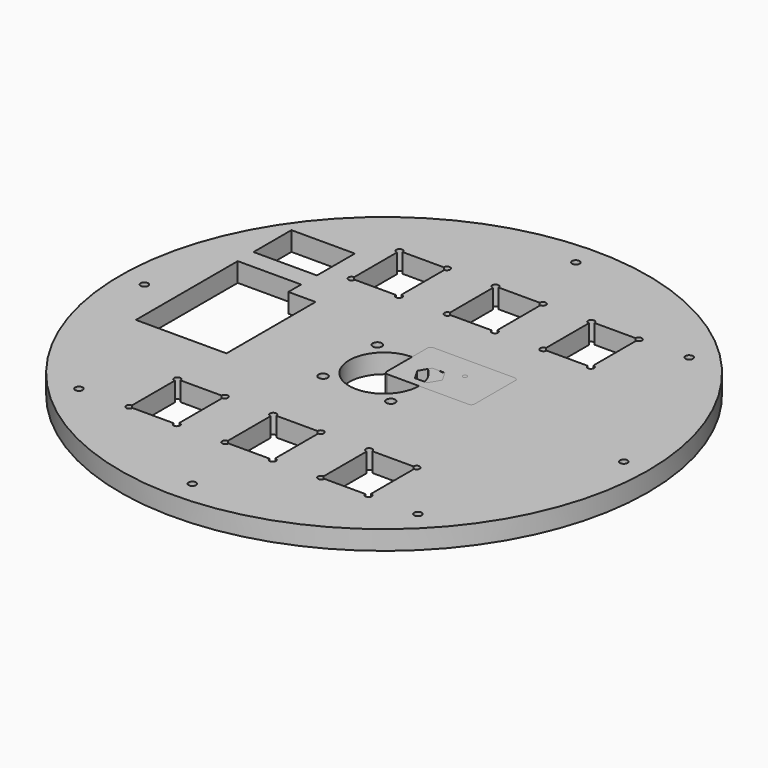
from build123d import *

# Parameters (mm, degrees)
F0_R     = 82.58
F0_R_2   = 1.17
F0_R_3   = 1.42
F0_R_4   = 10.92
F1_DEPTH = 6
F2_W     = 19.84
F2_H     = 14.84
F3_DEPTH = 6.001
F4_R     = 82.58
F4_R_2   = 1.17
F4_W     = 14.84
F4_H     = 18.74
F4_R_3   = 1.42
F4_W_2   = 19.84
F4_H_2   = 14.84
F4_R_4   = 10.92
F5_DEPTH = 6.001
F6_R     = 1
F7_DEPTH = 6.001
F8_W     = 27.5
F8_H     = 18
F8_R     = 0.65
F9_DEPTH = 6
F10_R    = 1


with BuildPart() as f1:
    # F0 (on Top) → F1 (new body)
    with BuildSketch(Plane.XY):
        Circle(F0_R)
        with Locations((-53.033009, -53.033009)):
            Circle(F0_R_2, mode=Mode.SUBTRACT)
        with Locations((-10.606602, -10.606602)):
            Circle(F0_R_3, mode=Mode.SUBTRACT)
        with Locations((0, -75)):
            Circle(F0_R_2, mode=Mode.SUBTRACT)
        with Locations((53.033009, -53.033009)):
            Circle(F0_R_2, mode=Mode.SUBTRACT)
        with Locations((10.606602, -10.606602)):
            Circle(F0_R_3, mode=Mode.SUBTRACT)
        with Locations((-75, 0)):
            Circle(F0_R_2, mode=Mode.SUBTRACT)
        with Locations((-10.606602, 10.606602)):
            Circle(F0_R_3, mode=Mode.SUBTRACT)
        Circle(F0_R_4, mode=Mode.SUBTRACT)
        with Locations((10.606602, 10.606602)):
            Circle(F0_R_3, mode=Mode.SUBTRACT)
        with Locations((75, 0)):
            Circle(F0_R_2, mode=Mode.SUBTRACT)
        with Locations((0, 75)):
            Circle(F0_R_2, mode=Mode.SUBTRACT)
        with Locations((53.033009, 53.033009)):
            Circle(F0_R_2, mode=Mode.SUBTRACT)
    extrude(amount=F1_DEPTH)

    # F2 (on face) → F3 (cut, through all)
    with BuildSketch(Plane.XY.offset(6)):
        with Locations((-55, 37.499991)):
            Rectangle(F2_W, F2_H)
        Polygon((-45.08, 23.919991), (-64.92, 23.919991), (-64.92, -15.920009), (-36.58, -15.920009), (-36.58, 18.919991), (-45.08, 18.919991), align=None)
    extrude(amount=-F3_DEPTH, mode=Mode.SUBTRACT)

    # F4 (on face) → F5 (intersect, through all)
    with BuildSketch(Plane.XY.offset(6)):
        Circle(F4_R)
        with Locations((-53.033009, -53.033009)):
            Circle(F4_R_2, mode=Mode.SUBTRACT)
        with Locations((-30, -43.45)):
            Rectangle(F4_W, F4_H, mode=Mode.SUBTRACT)
        with Locations((-10.606602, -10.606602)):
            Circle(F4_R_3, mode=Mode.SUBTRACT)
        with Locations((0, -75)):
            Circle(F4_R_2, mode=Mode.SUBTRACT)
        with Locations((0, -43.45)):
            Rectangle(F4_W, F4_H, mode=Mode.SUBTRACT)
        with Locations((30, -43.45)):
            Rectangle(F4_W, F4_H, mode=Mode.SUBTRACT)
        with Locations((53.033009, -53.033009)):
            Circle(F4_R_2, mode=Mode.SUBTRACT)
        with Locations((10.606602, -10.606602)):
            Circle(F4_R_3, mode=Mode.SUBTRACT)
        with Locations((-75, 0)):
            Circle(F4_R_2, mode=Mode.SUBTRACT)
        Polygon((-45.08, 23.919991), (-45.08, 18.919991), (-36.58, 18.919991), (-36.58, -15.920009), (-64.92, -15.920009), (-64.92, 23.919991), align=None, mode=Mode.SUBTRACT)
        with Locations((-55, 37.499991)):
            Rectangle(F4_W_2, F4_H_2, mode=Mode.SUBTRACT)
        with Locations((-10.606602, 10.606602)):
            Circle(F4_R_3, mode=Mode.SUBTRACT)
        with Locations((-30, 43.45)):
            Rectangle(F4_W, F4_H, mode=Mode.SUBTRACT)
        Circle(F4_R_4, mode=Mode.SUBTRACT)
        with Locations((10.606602, 10.606602)):
            Circle(F4_R_3, mode=Mode.SUBTRACT)
        with Locations((75, 0)):
            Circle(F4_R_2, mode=Mode.SUBTRACT)
        with Locations((0, 43.45)):
            Rectangle(F4_W, F4_H, mode=Mode.SUBTRACT)
        with Locations((30, 43.45)):
            Rectangle(F4_W, F4_H, mode=Mode.SUBTRACT)
        with Locations((0, 75)):
            Circle(F4_R_2, mode=Mode.SUBTRACT)
        with Locations((53.033009, 53.033009)):
            Circle(F4_R_2, mode=Mode.SUBTRACT)
    extrude(amount=-F5_DEPTH, mode=Mode.INTERSECT)

    # F6 (on face) → F7 (cut, through all)
    with BuildSketch(Plane.XY.offset(6)):
        with Locations((-37.42, 52.82)):
            Circle(F6_R)
        with Locations((-22.58, 52.82)):
            Circle(F6_R)
        with Locations((-22.58, 34.08)):
            Circle(F6_R)
        with Locations((-37.42, 34.08)):
            Circle(F6_R)
        with Locations((-7.42, 34.08)):
            Circle(F6_R)
        with Locations((-7.42, 52.82)):
            Circle(F6_R)
        with Locations((7.42, 52.82)):
            Circle(F6_R)
        with Locations((7.42, 34.08)):
            Circle(F6_R)
        with Locations((22.58, 34.08)):
            Circle(F6_R)
        with Locations((37.42, 34.08)):
            Circle(F6_R)
        with Locations((37.42, 52.82)):
            Circle(F6_R)
        with Locations((22.58, 52.82)):
            Circle(F6_R)
        with Locations((37.42, -52.82)):
            Circle(F6_R)
        with Locations((37.42, -34.08)):
            Circle(F6_R)
        with Locations((22.58, -34.08)):
            Circle(F6_R)
        with Locations((22.58, -52.82)):
            Circle(F6_R)
        with Locations((7.42, -52.82)):
            Circle(F6_R)
        with Locations((7.42, -34.08)):
            Circle(F6_R)
        with Locations((-7.42, -34.08)):
            Circle(F6_R)
        with Locations((-7.42, -52.82)):
            Circle(F6_R)
        with Locations((-22.58, -52.82)):
            Circle(F6_R)
        with Locations((-37.42, -52.82)):
            Circle(F6_R)
        with Locations((-37.42, -34.08)):
            Circle(F6_R)
        with Locations((-22.58, -34.08)):
            Circle(F6_R)
    extrude(amount=-F7_DEPTH, mode=Mode.SUBTRACT)


with BuildPart() as f9:
    # F8 (on Top) → F9 (new body)
    with BuildSketch(Plane.XY):
        with Locations((13.75, 9)):
            Rectangle(F8_W, F8_H)
        Polygon((11.462991, 9.4), (13.425982, 6), (11.462991, 2.6), (7.537009, 2.6), (5.574018, 6), (7.537009, 9.4), align=None, mode=Mode.SUBTRACT)
        with Locations((16.5, 11)):
            Circle(F8_R, mode=Mode.SUBTRACT)
    extrude(amount=F9_DEPTH)

    # F10
    f10_edges = [f9.edges().sort_by_distance(p)[0] for p in [
        (0, 18, 3),
        (0, 0, 3),
        (27.5, 0, 3),
        (27.5, 18, 3),
    ]]
    fillet(f10_edges, radius=F10_R)


solid = Compound([f1.part, f9.part])
